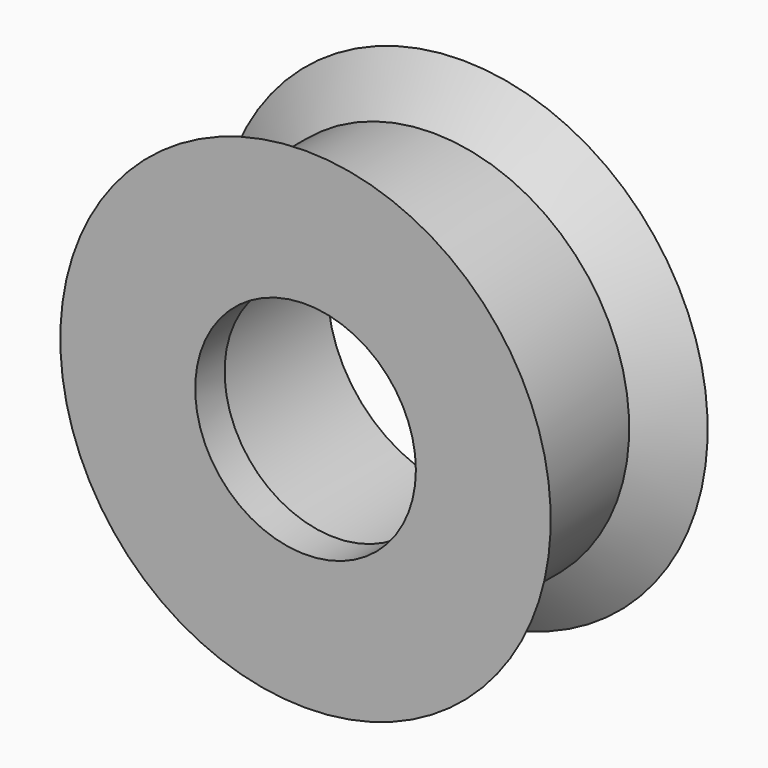
from build123d import *

# Parameters (mm, degrees)
F2_R     = 5.5
F2_R_2   = 4.5
F3_DEPTH = 1.5


with BuildPart() as f1:
    # F0 (on Right) → F1 (revolve)
    with BuildSketch(Plane.YZ):
        Polygon((2.5, 8), (-2.5, 8), (-4, 10), (-4, 5.5), (4, 5.5), (4, 10), align=None)
    revolve(axis=Axis((0, 19.221617, 0), (0, 1, 0)))

    # F2 (on face) → F3 (join)
    with BuildSketch(Plane.XZ.offset(4)):
        Circle(F2_R)
        Circle(F2_R_2, mode=Mode.SUBTRACT)
    extrude(amount=-F3_DEPTH)


solid = f1.part
